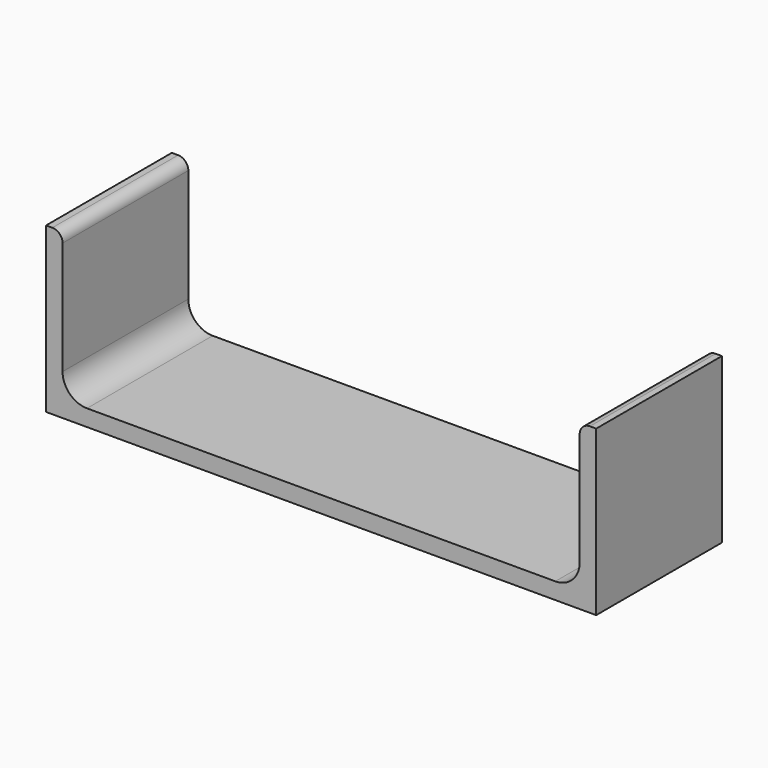
from build123d import *

# Parameters (mm, degrees)
F1_DEPTH = 25.4


with BuildPart() as f1:
    # F0 (on Front) → F1 (new body, symmetric)
    with BuildSketch(Plane.XZ):
        with BuildLine():
            Line((-88.9, 0), (0, 0))
            Line((0, 0), (88.9, 0))
            Line((88.9, 0), (88.9, 53.086))
            Line((88.9, 53.086), (86.868, 53.086))
            ThreePointArc((86.868, 53.086), (84.533133, 52.118867), (83.566, 49.784))
            Line((83.566, 49.784), (83.566, 13.208))
            ThreePointArc((83.566, 13.208), (81.259759, 7.640241), (75.692, 5.334))
            Line((75.692, 5.334), (-75.692, 5.334))
            ThreePointArc((-75.692, 5.334), (-81.259759, 7.640241), (-83.566, 13.208))
            Line((-83.566, 13.208), (-83.566, 49.784))
            ThreePointArc((-83.566, 49.784), (-84.533133, 52.118867), (-86.868, 53.086))
            Line((-86.868, 53.086), (-88.9, 53.086))
            Line((-88.9, 53.086), (-88.9, 0))
        make_face()
    extrude(amount=F1_DEPTH, both=True)


solid = f1.part
